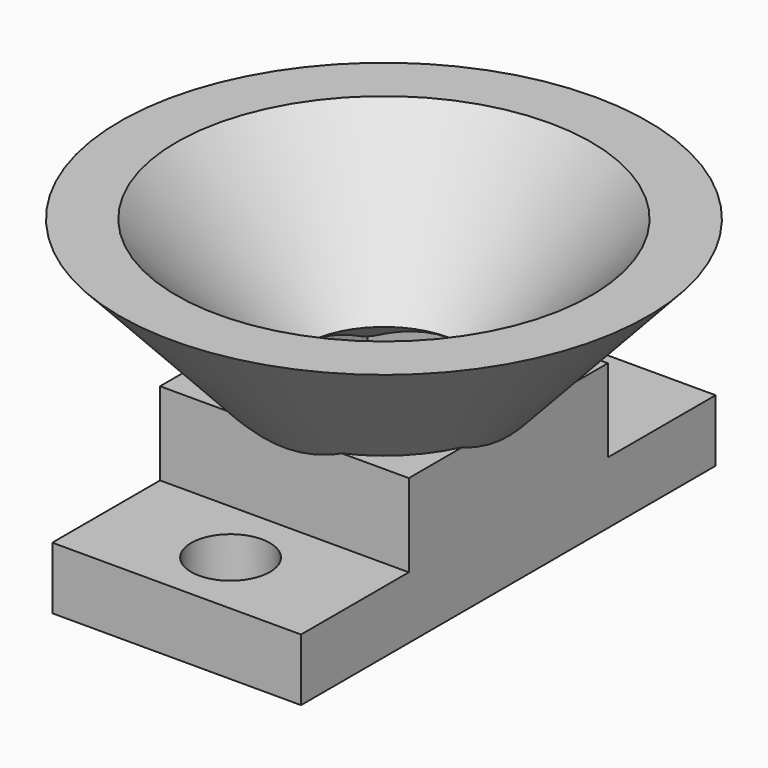
from build123d import *

# Parameters (mm, degrees)
F0_W     = 12
F0_H     = 25
F0_R     = 1.9
F0_W_2   = 8
F0_H_2   = 8
F1_DEPTH = 3
F2_W     = 12
F2_H     = 12
F2_W_2   = 8
F2_H_2   = 8
F3_DEPTH = 4


with BuildPart() as f1:
    # F0 (on Top) → F1 (new body)
    with BuildSketch(Plane.XY):
        Rectangle(F0_W, F0_H)
        with Locations((0, -9.25)):
            Circle(F0_R, mode=Mode.SUBTRACT)
        Rectangle(F0_W_2, F0_H_2, mode=Mode.SUBTRACT)
        with Locations((0, 9.25)):
            Circle(F0_R, mode=Mode.SUBTRACT)
    extrude(amount=F1_DEPTH)

    # F2 (on face) → F3 (join)
    with BuildSketch(Plane.XY.offset(3)):
        Rectangle(F2_W, F2_H)
        Rectangle(F2_W_2, F2_H_2, mode=Mode.SUBTRACT)
    extrude(amount=F3_DEPTH)

    # F5 (on Right) → F6 (revolve)
    with BuildSketch(Plane.YZ):
        Polygon((3.891662, 7.005772), (5.491862, 5.790449), (12.732967, 13.621861), (10.009052, 13.621861), align=None)
    revolve(axis=Axis((0, 0, 7.370598), (0, 0, -1)))


solid = f1.part
